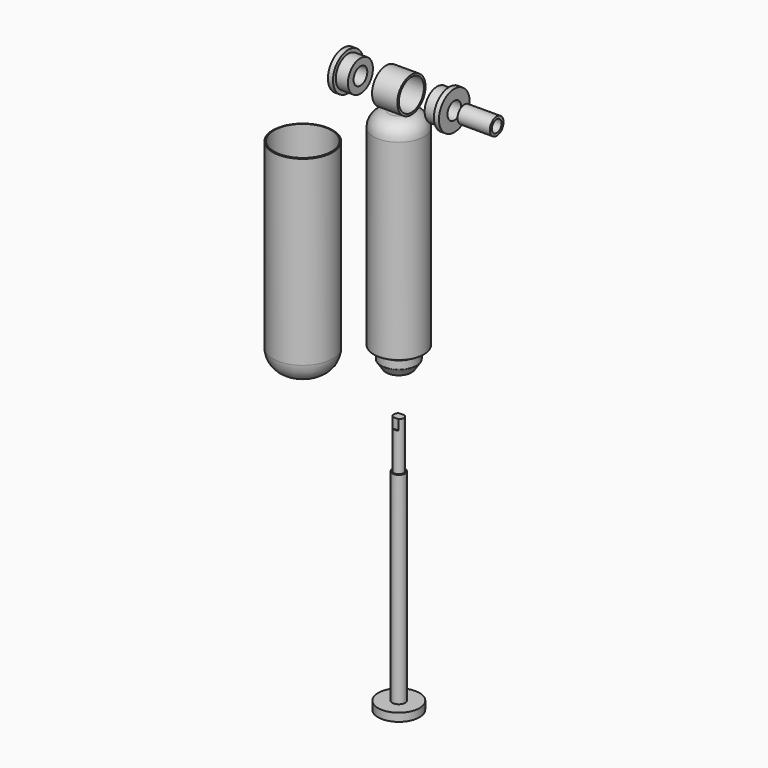
from build123d import *

# Parameters (mm, degrees)
F3_R      = 5
F4_DEPTH  = 48
F6_DEPTH  = 10
F9_R      = 1
F11_R     = 17.5
F11_R_2   = 15.5
F12_DEPTH = 12.5
F14_R     = 15.5
F14_R_2   = 8.5
F15_DEPTH = 12
F16_R     = 19
F16_R_2   = 8.5
F17_DEPTH = 5
F20_R     = 8.5
F20_R_2   = 6
F21_DEPTH = 32
F24_ANGLE = 270


with BuildPart() as f1:
    # F0 (on Right) → F1 (revolve)
    with BuildSketch(Plane.YZ):
        Polygon((-208, 0), (0, 0), (0, 20.5), (-8, 20.5), (-8, 6.35), (-208, 6.35), align=None)
    revolve(axis=Axis((0, -104, 0), (0, -1, 0)))

    # F3 (on face) → F4 (join)
    with BuildSketch(Plane.XZ.offset(208)):
        Circle(F3_R)
    extrude(amount=F4_DEPTH)

    # F5 (on face) → F6 (cut)
    with BuildSketch(Plane.XZ.offset(256)):
        with BuildLine():
            ThreePointArc((3, 4), (0, 5), (-3, 4))
            Line((-3, 4), (3, 4))
        make_face()
        with BuildLine():
            Line((3, -4), (-3, -4))
            ThreePointArc((-3, -4), (0, -5), (3, -4))
        make_face()
    extrude(amount=-F6_DEPTH, mode=Mode.SUBTRACT)


with BuildPart() as f8:
    # F7 (on Right) → F8 (revolve)
    with BuildSketch(Plane.YZ):
        with BuildLine():
            Line((24.0707390357, 10), (24.0707390357, 0))
            Line((24.0707390357, 0), (26.0707390357, 0))
            Line((26.0707390357, 0), (26.0707390357, 10))
            ThreePointArc((26.0707390357, 10), (29.8783508802, 19.1923881554), (39.0707390357, 23))
            Line((39.0707390357, 23), (227.8939323377, 23))
            Line((227.8939323377, 23), (231.8939323377, 15.8))
            Line((231.8939323377, 15.8), (240.4683414983, 15.8))
            Line((240.4683414983, 15.8), (247.0707390357, 11.4259116315))
            Line((247.0707390357, 11.4259116315), (247.0707390357, 6.35))
            Line((247.0707390357, 6.35), (249.0707390357, 6.35))
            Line((249.0707390357, 6.35), (249.0707390357, 12.5))
            Line((249.0707390357, 12.5), (241.0707390357, 17.8))
            Line((241.0707390357, 17.8), (233.0707390357, 17.8))
            Line((233.0707390357, 17.8), (229.0707390357, 25))
            Line((229.0707390357, 25), (39.0707390357, 25))
            ThreePointArc((39.0707390357, 25), (28.4641373179, 20.6066017178), (24.0707390357, 10))
        make_face()
    revolve(axis=Axis((0, 136.9103712465, 0), (0, 1, 0)))

    # F9
    f9_edges = [f8.edges().sort_by_distance(p)[0] for p in [
        (0, 229.070739, -25),
        (0, 241.070739, -17.8),
        (0, 233.070739, -17.8),
        (0, 249.070739, -12.5),
    ]]
    fillet(f9_edges, radius=F9_R)


with BuildPart() as f8_1:
    # F10: moved
    add(f8.part.moved(Location((0, -546.93424, 0))))

    # F11 (on Right) → F12 (join, symmetric)
    with BuildSketch(Plane.YZ):
        with Locations((-540.3635009643, 0)):
            Circle(F11_R)
        with Locations((-540.3635009643, 0)):
            Circle(F11_R_2, mode=Mode.SUBTRACT)
    extrude(amount=F12_DEPTH, both=True)


with BuildPart() as f15:
    # F14 (on offset) → F15 (new body)
    with BuildSketch(Plane.YZ.offset(50)):
        with Locations((-540.3635009643, 0)):
            Circle(F14_R)
        with Locations((-540.3635009643, 0)):
            Circle(F14_R_2, mode=Mode.SUBTRACT)
    extrude(amount=-F15_DEPTH)

    # F16 (on face) → F17 (join)
    with BuildSketch(Plane.YZ.offset(50)):
        with Locations((-540.3635009643, 0)):
            Circle(F16_R)
        with Locations((-540.3635009643, 0)):
            Circle(F16_R_2, mode=Mode.SUBTRACT)
    extrude(amount=F17_DEPTH)


with BuildPart() as f18_1:
    # F18: instance of F15
    add(f15.part.mirror(Plane.YZ))


with BuildPart() as f21:
    # F20 (on offset) → F21 (new body)
    with BuildSketch(Plane.YZ.offset(65)):
        with Locations((-540.4589772224, 0)):
            Circle(F20_R)
        with Locations((-540.4589772224, 0)):
            Circle(F20_R_2, mode=Mode.SUBTRACT)
    extrude(amount=F21_DEPTH)


with BuildPart() as f23:
    # F22 (on Right) → F23 (revolve)
    with BuildSketch(Plane.YZ):
        with BuildLine():
            Line((-364.0748751163, -89.1511401534), (-544.0748751163, -89.1511401534))
            Line((-544.0748751163, -89.1511401534), (-544.3445468426, -90.3511401534))
            Line((-544.3445468426, -90.3511401534), (-364.0748751163, -90.3511401534))
            ThreePointArc((-364.0748751163, -90.3511401534), (-350.78126763, -95.8575326671), (-345.2748751163, -109.1511401534))
            Line((-345.2748751163, -109.1511401534), (-345.2748751163, -112.4976724386))
            Line((-345.2748751163, -112.4976724386), (-344.0748751163, -112.4976724386))
            Line((-344.0748751163, -112.4976724386), (-344.0748751163, -109.1511401534))
            ThreePointArc((-344.0748751163, -109.1511401534), (-349.9327394926, -95.0090045297), (-364.0748751163, -89.1511401534))
        make_face()
    revolve(axis=Axis((0, -431.61650002, -118.8476724386), (0, 1, 0)))


with BuildPart() as f1_1:
    # F24: moved
    add(f1.part.rotate(Axis((116.0570755601, 0, 0), (1, 0, 0)), F24_ANGLE))


with BuildPart() as f15_1:
    # F24: moved
    add(f15.part.rotate(Axis((116.0570755601, 0, 0), (1, 0, 0)), F24_ANGLE))


with BuildPart() as f21_1:
    # F24: moved
    add(f21.part.rotate(Axis((116.0570755601, 0, 0), (1, 0, 0)), F24_ANGLE))


with BuildPart() as f8_2:
    # F24: moved
    add(f8_1.part.rotate(Axis((116.0570755601, 0, 0), (1, 0, 0)), F24_ANGLE))


with BuildPart() as f18_1_1:
    # F24: moved
    add(f18_1.part.rotate(Axis((116.0570755601, 0, 0), (1, 0, 0)), F24_ANGLE))


with BuildPart() as f23_1:
    # F24: moved
    add(f23.part.rotate(Axis((116.0570755601, 0, 0), (1, 0, 0)), F24_ANGLE))


solid = Compound([f1_1.part, f15_1.part, f21_1.part, f8_2.part, f18_1_1.part, f23_1.part])
